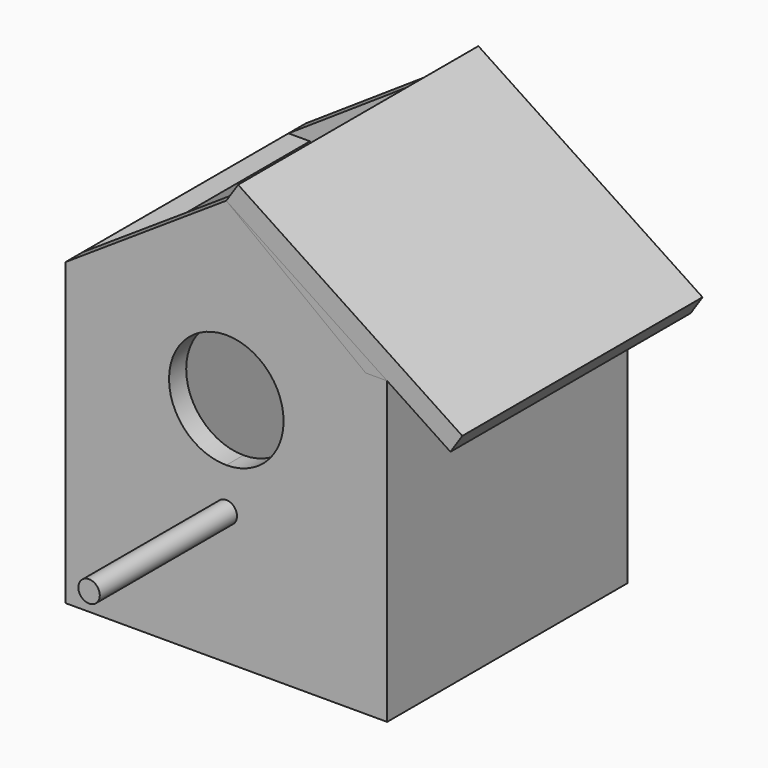
from build123d import *

# Parameters (mm, degrees)
F0_R      = 12.6242365168
F1_DEPTH  = 12.7
F2_R      = 6.35
F3_DEPTH  = 101.6
F4_W      = 165.1
F4_H      = 165.1
F5_DEPTH  = 12.7
F6_W      = 165.1
F6_H      = 165.1
F7_DEPTH  = 12.7
F8_W      = 190.5
F8_H      = 165.1
F9_DEPTH  = 12.7
F11_DEPTH = 12.7
F13_DEPTH = 12.7
F15_DEPTH = 12.7
F17_DEPTH = 12.7
F18_W     = 190.5
F18_H     = 177.8
F19_DEPTH = 12.7


with BuildPart() as f1:
    # F0 (on Front) → F1 (new body)
    with BuildSketch(Plane.XZ):
        Polygon((0, 82.55), (-82.55, 82.55), (-82.55, -82.55), (82.55, -82.55), (82.55, 82.55), align=None)
        with Locations((0, -25.6478693336)):
            Circle(F0_R, mode=Mode.SUBTRACT)
        with BuildLine():
            ThreePointArc((0, 7.6638790456), (-33.917569122, 41.5814481676), (0, 75.4990172895))
            ThreePointArc((0, 75.4990172895), (23.9833431275, 65.5647912951), (33.917569122, 41.5814481676))
            ThreePointArc((33.917569122, 41.5814481676), (23.9833431275, 17.59810504), (0, 7.6638790456))
        make_face(mode=Mode.SUBTRACT)
        Polygon((0, 145.5251276493), (-82.55, 82.55), (0, 82.55), align=None)
        Polygon((0, 145.5251276493), (0, 82.55), (82.55, 82.55), align=None)
        with Locations((0, -25.6478693336)):
            Circle(F0_R)
    extrude(amount=F1_DEPTH)

    # F4 (on face) → F5 (join)
    with BuildSketch(Plane.YZ.offset(82.55)):
        with Locations((69.85, 0)):
            Rectangle(F4_W, F4_H)
    extrude(amount=F5_DEPTH)

    # F6 (on face) → F7 (join)
    with BuildSketch(Plane(origin=(-82.55, 0, 0), x_dir=(0, -1, 0), z_dir=(-1, 0, 0))):
        with Locations((-69.85, 0)):
            Rectangle(F6_W, F6_H)
    extrude(amount=F7_DEPTH)

    # F8 (on face) → F9 (join)
    with BuildSketch(Plane(origin=(0, 152.4, 0), x_dir=(-1, 0, 0), z_dir=(0, 1, 0))):
        Rectangle(F8_W, F8_H)
    extrude(amount=F9_DEPTH)

    # F12 (on face) → F13 (join)
    with BuildSketch(Plane.XZ.offset(12.7)):
        Polygon((-82.55, 82.55), (0, 145.5251276493), (-95.25, 82.55), align=None)
    extrude(amount=-F13_DEPTH)

    # F14 (on face) → F15 (join)
    with BuildSketch(Plane(origin=(0, 165.1, 0), x_dir=(-1, 0, 0), z_dir=(0, 1, 0))):
        Polygon((-95.25, 82.55), (0, 82.55), (0, 146.05), align=None)
        Polygon((0, 146.05), (0, 82.55), (95.25, 82.55), align=None)
    extrude(amount=-F15_DEPTH)

    # F18 (on face) → F19 (join)
    with BuildSketch(Plane(origin=(0, 0, -82.55), x_dir=(1, 0, 0), z_dir=(0, 0, -1))):
        with Locations((0, -76.2)):
            Rectangle(F18_W, F18_H)
    extrude(amount=F19_DEPTH)


with BuildPart() as f3:
    # F2 (on face) → F3 (new body)
    with BuildSketch(Plane.XZ.offset(12.7)):
        with Locations((0, -16.8675573403)):
            Circle(F2_R)
    extrude(amount=F3_DEPTH)


with BuildPart() as f11:
    # F10 (on face) → F11 (new body)
    with BuildSketch(Plane.XZ.offset(12.7)):
        Polygon((95.25, 82.55), (0, 145.5251276493), (82.55, 82.55), align=None)
    extrude(amount=-F11_DEPTH)


with BuildPart() as f17:
    # F16 (on face) → F17 (new body)
    with BuildSketch(Plane(origin=(66.9494103821, 0, 101.2611101705), x_dir=(0.8341657377, 0, -0.5515138458), z_dir=(0.5515138458, 0, 0.8341657377))):
        Polygon((-80.2591228078, 165.1490181684), (-80.2591228078, -12.7), (33.9268185442, -12.7), (78.8811668754, -12.7), (78.8811668754, 165.1490181684), (33.4978550673, 165.1490181684), align=None)
    extrude(amount=F17_DEPTH)


solid = Compound([f1.part, f3.part, f11.part, f17.part])
